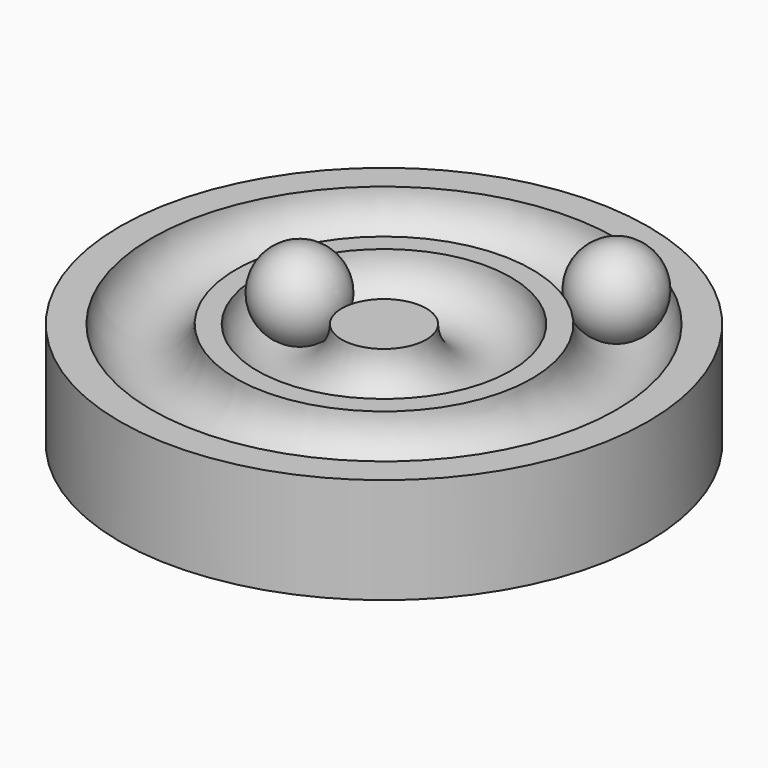
from build123d import *

# Parameters (mm, degrees)
TORUS001_R     = 4
TORUS_R        = 4
CYLINDER_R     = 25
CYLINDER_DEPTH = 10


with BuildPart() as obj1:
    # Torus001 → Torus001 (revolve)
    with BuildSketch(Plane.XZ):
        with Locations((18, 0)):
            Circle(TORUS001_R)
    revolve(axis=Axis((0, 0, 0), (0, 0, 1)))


with BuildPart() as obj2:
    # Torus → Torus (revolve)
    with BuildSketch(Plane.XZ):
        with Locations((8, 0)):
            Circle(TORUS_R)
    revolve(axis=Axis((0, 0, 0), (0, 0, 1)))

    # Fusion: union obj1
    add(obj1.part)


with BuildPart() as obj2_1:
    # Fusion placement: moved
    add(obj2.part.moved(Location((0, 0, 10))))


with BuildPart() as obj3:
    # Cylinder → Cylinder (new body)
    with BuildSketch(Plane.XY):
        Circle(CYLINDER_R)
    extrude(amount=CYLINDER_DEPTH)

    # Cut: cut obj2
    add(obj2_1.part, mode=Mode.SUBTRACT)


with BuildPart() as sphere:
    # Sphere → Sphere (revolve)
    with BuildSketch(Plane(origin=(-8, 0, 10), x_dir=(1, 0, 0), z_dir=(0, -1, 0))):
        with BuildLine():
            ThreePointArc((0, -4), (4, 0), (0, 4))
            Line((0, 4), (0, -4))
        make_face()
    revolve(axis=Axis((-8, 0, 10), (0, 0, 1)))


with BuildPart() as sphere001:
    # Sphere001 → Sphere001 (revolve)
    with BuildSketch(Plane(origin=(10, 15, 10), x_dir=(1, 0, 0), z_dir=(0, -1, 0))):
        with BuildLine():
            ThreePointArc((0, -4), (4, 0), (0, 4))
            Line((0, 4), (0, -4))
        make_face()
    revolve(axis=Axis((10, 15, 10), (0, 0, 1)))


solid = Compound([obj3.part, sphere.part, sphere001.part])
